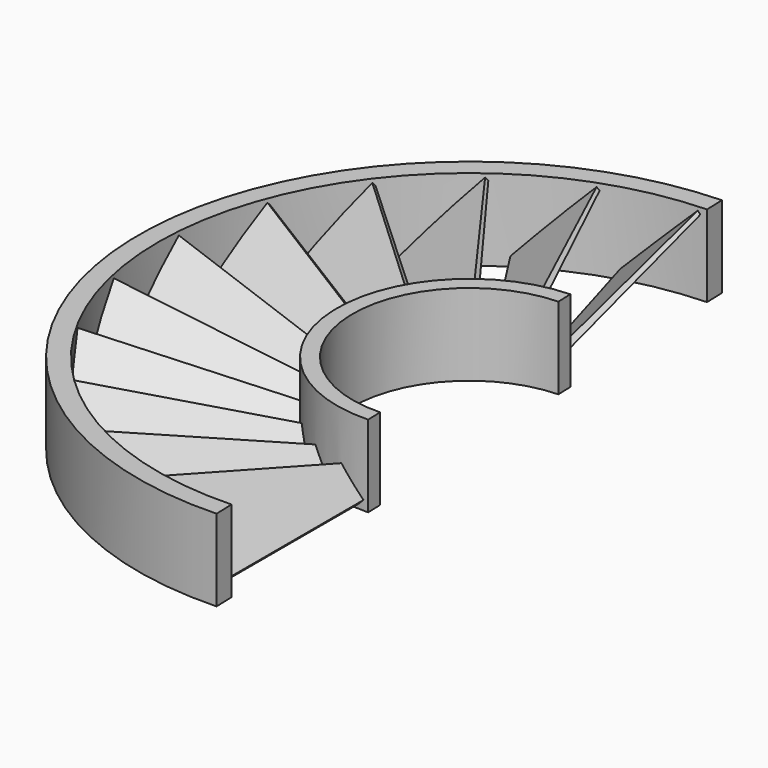
from build123d import *

# Parameters (mm, degrees)
BOX001_W                  = 500
BOX001_H                  = 500
BOX001_DEPTH              = 500
BOX001_PLACEMENT_ANGLE    = 2
TUBE034_R                 = 85
TUBE034_R_2               = 80
TUBE034_DEPTH             = 21
TUBE033_R                 = 100
TUBE033_R_2               = 80
TUBE033_DEPTH             = 200
PAD032_DEPTH              = 100
PAD033_DEPTH              = 2
COMMON014_PLACEMENT_ANGLE = 45
ARRAY014_COUNT            = 22
ARRAY014_PLACEMENT_ANGLE  = 180
TUBE035_R                 = 34
TUBE035_R_2               = 30
TUBE035_DEPTH             = 21


with BuildPart() as cube001:
    # Box001 → Box001 (new body)
    with BuildSketch(Plane.XY):
        with Locations((250, 250)):
            Rectangle(BOX001_W, BOX001_H)
    extrude(amount=BOX001_DEPTH)


with BuildPart() as cube001_1:
    # Box001 placement: moved
    add(cube001.part.moved(Location((8.73, -250, 0))).rotate(Axis((8.73, -250, 0), (0, 0, 1)), BOX001_PLACEMENT_ANGLE))


with BuildPart() as tube034:
    # Tube034 → Tube034 (new body)
    with BuildSketch(Plane.XY.offset(139.5)):
        Circle(TUBE034_R)
        Circle(TUBE034_R_2, mode=Mode.SUBTRACT)
    extrude(amount=TUBE034_DEPTH)


with BuildPart() as tube033:
    # Tube033 → Tube033 (new body)
    with BuildSketch(Plane.XY):
        Circle(TUBE033_R)
        Circle(TUBE033_R_2, mode=Mode.SUBTRACT)
    extrude(amount=TUBE033_DEPTH)


with BuildPart() as body033:
    # Sketch032 → Pad032 (new body)
    with BuildSketch(Plane.XZ):
        Polygon((0, 0), (0, 2), (26, 0.9), (26, 0), align=None)
    extrude(amount=PAD032_DEPTH)


with BuildPart() as body033_1:
    # Body033 placement: moved
    add(body033.part.moved(Location((-5, 0, 5))))


with BuildPart() as cut008:
    # Sketch033 → Pad033 (new body)
    with BuildSketch(Plane.XY):
        Polygon((0, 0), (0, -52), (25.94305, -47.924315), (8.5, 0), align=None)
    extrude(amount=PAD033_DEPTH)


with BuildPart() as cut008_1:
    # Body034 placement: moved
    add(cut008.part.moved(Location((-5, -33, 5))))

    # Common014: intersect Body033
    add(body033_1.part, mode=Mode.INTERSECT)


with BuildPart() as cut008_2:
    # Common014 placement: moved
    add(cut008_1.part.rotate(Axis((0, 0, 0), (0, 1, 0)), COMMON014_PLACEMENT_ANGLE))

    # Array014: Cut008 ×22 about axis
    array014_axis = Axis((0, 0, 0), (0, 0, 1))


with BuildPart() as cut008_3:
    add(cut008_2.part)
    for i in range(1, ARRAY014_COUNT):
        add(cut008_2.part.rotate(array014_axis, i * 360 / ARRAY014_COUNT))


with BuildPart() as cut008_4:
    # Array014 placement: moved
    add(cut008_3.part.moved(Location((0, 0, 149))).rotate(Axis((0, 0, 149), (0, 1, 0)), ARRAY014_PLACEMENT_ANGLE))

    # Cut008: cut Tube033
    add(tube033.part, mode=Mode.SUBTRACT)


with BuildPart() as obj1:
    # Tube035 → Tube035 (new body)
    with BuildSketch(Plane.XY.offset(139.5)):
        Circle(TUBE035_R)
        Circle(TUBE035_R_2, mode=Mode.SUBTRACT)
    extrude(amount=TUBE035_DEPTH)

    # Fusion016: union Tube034, Cut008
    add(tube034.part)
    add(cut008_4.part)

    # Cut009: cut Cube001
    add(cube001_1.part, mode=Mode.SUBTRACT)


solid = obj1.part
